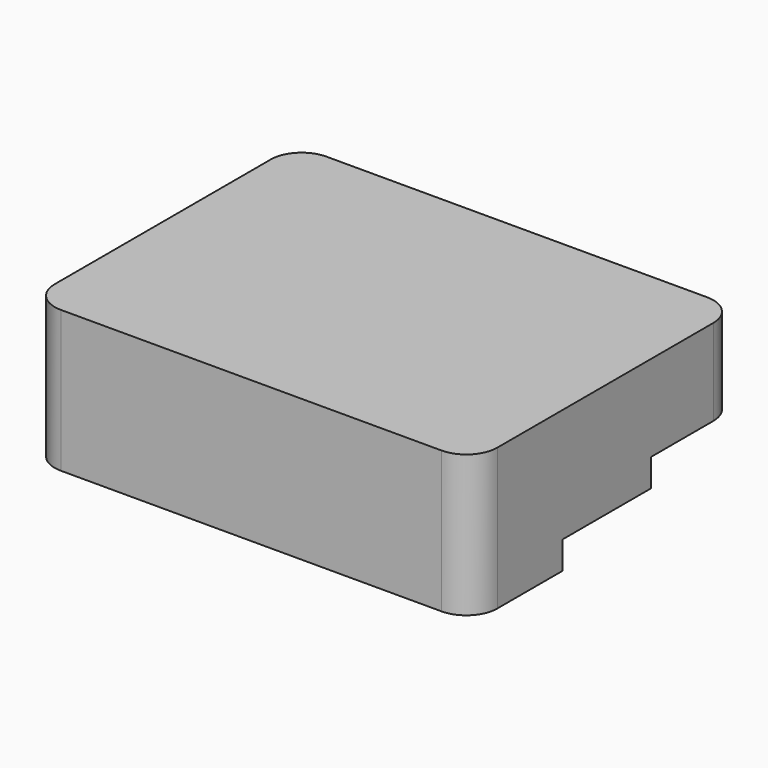
from build123d import *

# Parameters (mm, degrees)
F0_W     = 160
F0_H     = 120
F0_W_2   = 38.2
F0_H_2   = 38.2
F0_W_3   = 38.8
F0_H_3   = 38.8
F1_DEPTH = 50
F2_W     = 160
F2_H     = 120
F3_DEPTH = 1.2
F5_DEPTH = 160.001
F7_DEPTH = 158.8
F8_R     = 10
F9_R     = 11.2
F10_R    = 10


with BuildPart() as f1:
    # F0 (on Top) → F1 (new body)
    with BuildSketch(Plane.XY):
        with Locations((-80, -60)):
            Rectangle(F0_W, F0_H)
        with Locations((-139.7, -99.7)):
            Rectangle(F0_W_2, F0_H_2, mode=Mode.SUBTRACT)
        with Locations((-100, -99.7)):
            Rectangle(F0_W_3, F0_H_2, mode=Mode.SUBTRACT)
        with Locations((-60, -99.7)):
            Rectangle(F0_W_3, F0_H_2, mode=Mode.SUBTRACT)
        with Locations((-20.3, -99.7)):
            Rectangle(F0_W_2, F0_H_2, mode=Mode.SUBTRACT)
        with Locations((-139.7, -60)):
            Rectangle(F0_W_2, F0_H_3, mode=Mode.SUBTRACT)
        with Locations((-100, -60)):
            Rectangle(F0_W_3, F0_H_3, mode=Mode.SUBTRACT)
        with Locations((-139.7, -20.3)):
            Rectangle(F0_W_2, F0_H_2, mode=Mode.SUBTRACT)
        with Locations((-100, -20.3)):
            Rectangle(F0_W_3, F0_H_2, mode=Mode.SUBTRACT)
        with Locations((-60, -60)):
            Rectangle(F0_W_3, F0_H_3, mode=Mode.SUBTRACT)
        with Locations((-20.3, -60)):
            Rectangle(F0_W_2, F0_H_3, mode=Mode.SUBTRACT)
        with Locations((-60, -20.3)):
            Rectangle(F0_W_3, F0_H_2, mode=Mode.SUBTRACT)
        with Locations((-20.3, -20.3)):
            Rectangle(F0_W_2, F0_H_2, mode=Mode.SUBTRACT)
    extrude(amount=F1_DEPTH)

    # F2 (on face) → F3 (join)
    with BuildSketch(Plane.XY.offset(50)):
        with Locations((-80, -60)):
            Rectangle(F2_W, F2_H)
    extrude(amount=F3_DEPTH)

    # F4 (on face) → F5 (cut, through all)
    with BuildSketch(Plane(origin=(-160, 0, 0), x_dir=(0, -1, 0), z_dir=(-1, 0, 0))):
        Polygon((79.4, 0), (79.4, 10), (39.4, 10), (39.4, 20), (0, 20), (0, 0), align=None)
    extrude(amount=-F5_DEPTH, mode=Mode.SUBTRACT)

    # F6 (on face) → F7 (join, through all)
    with BuildSketch(Plane(origin=(-160, 0, 0), x_dir=(0, -1, 0), z_dir=(-1, 0, 0))):
        Polygon((40.6, 50), (40.6, 41.2), (79.4, 41.2), (79.4, 31.2), (118.8, 31.2), (118.8, 50), align=None)
    extrude(amount=-F7_DEPTH)

    # F8
    f8_edges = [f1.edges().sort_by_distance(p)[0] for p in [
        (-1.2, -118.8, 15.6),
        (-1.2, -1.2, 35),
        (-158.8, -118.8, 15.6),
        (-158.8, -1.2, 35),
    ]]
    fillet(f8_edges, radius=F8_R)

    # F9
    f9_edges = [f1.edges().sort_by_distance(p)[0] for p in [
        (-160, 0, 35.6),
        (0, 0, 35.6),
        (0, -120, 25.6),
        (-160, -120, 25.6),
    ]]
    fillet(f9_edges, radius=F9_R)

    # F10
    f10_edges = [f1.edges().sort_by_distance(p)[0] for p in [
        (-158.8, -80.6, 15.6),
        (-158.8, -40.6, 25.6),
        (-1.2, -40.6, 25.6),
        (-1.2, -80.6, 15.6),
    ]]
    fillet(f10_edges, radius=F10_R)


solid = f1.part
